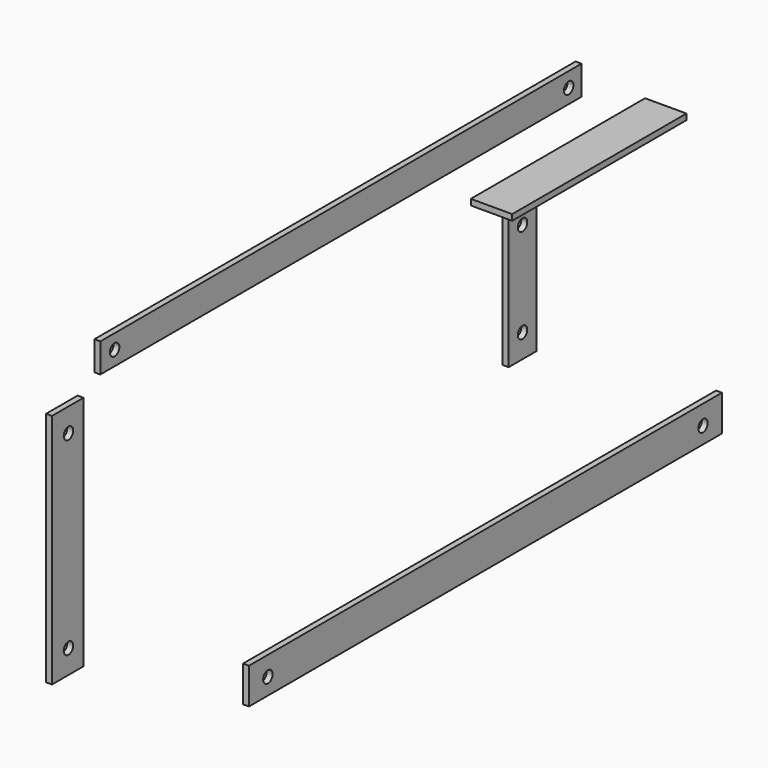
from build123d import *

# Parameters (mm, degrees)
F0_W          = 21.155387
F0_H          = 127
F0_R          = 3.175
F0_W_2        = 18.560842
F0_H_2        = 76.2
F1_DEPTH      = 3.175
F2_W          = 323.020727
F2_H          = 15.664489
F2_R          = 3.175
F3_DEPTH      = 3.175
F4_W          = 317.5
F4_H          = 19.294449
F4_R          = 3.175
F5_DEPTH      = 3.175
F6_W          = 116.985842
F6_H          = 3.175
F7_DEPTH      = 9.525
F7_DEPTH_BACK = 12.7


with BuildPart() as f1:
    # F0 (on Right) → F1 (new body)
    with BuildSketch(Plane.YZ):
        with Locations((-155.372232, 17.423994)):
            Rectangle(F0_W, F0_H)
        with Locations((-154.894739, -33.376006)):
            Circle(F0_R, mode=Mode.SUBTRACT)
        with Locations((-154.894739, 68.223994)):
            Circle(F0_R, mode=Mode.SUBTRACT)
        with Locations((149.883799, 17.423994)):
            Rectangle(F0_W_2, F0_H_2)
        with Locations((149.905261, -7.976006)):
            Circle(F0_R, mode=Mode.SUBTRACT)
        with Locations((149.905261, 42.823994)):
            Circle(F0_R, mode=Mode.SUBTRACT)
    extrude(amount=F1_DEPTH)

    # F6 (on face) → F7 (join, two sides)
    with BuildSketch(Plane.YZ.offset(3.175)) as f7_sk:
        with Locations((189.571299, 57.111494)):
            Rectangle(F6_W, F6_H)
    extrude(amount=F7_DEPTH)
    extrude(f7_sk.sketch, amount=-F7_DEPTH_BACK)


with BuildPart() as f3:
    # F2 (on Right) → F3 (new body)
    with BuildSketch(Plane.YZ):
        with Locations((28.003409, 95.137007)):
            Rectangle(F2_W, F2_H)
        with Locations((180.905588, 94.99578)):
            Circle(F2_R, mode=Mode.SUBTRACT)
        with Locations((-123.894412, 95.156968)):
            Circle(F2_R, mode=Mode.SUBTRACT)
    extrude(amount=F3_DEPTH)


with BuildPart() as f5:
    # F4 (on Right) → F5 (new body)
    with BuildSketch(Plane.YZ):
        with Locations((125.043394, -100.584175)):
            Rectangle(F4_W, F4_H)
        with Locations((-21.006606, -101.374939)):
            Circle(F4_R, mode=Mode.SUBTRACT)
        with Locations((271.093394, -101.374939)):
            Circle(F4_R, mode=Mode.SUBTRACT)
    extrude(amount=F5_DEPTH)


solid = Compound([f1.part, f3.part, f5.part])
